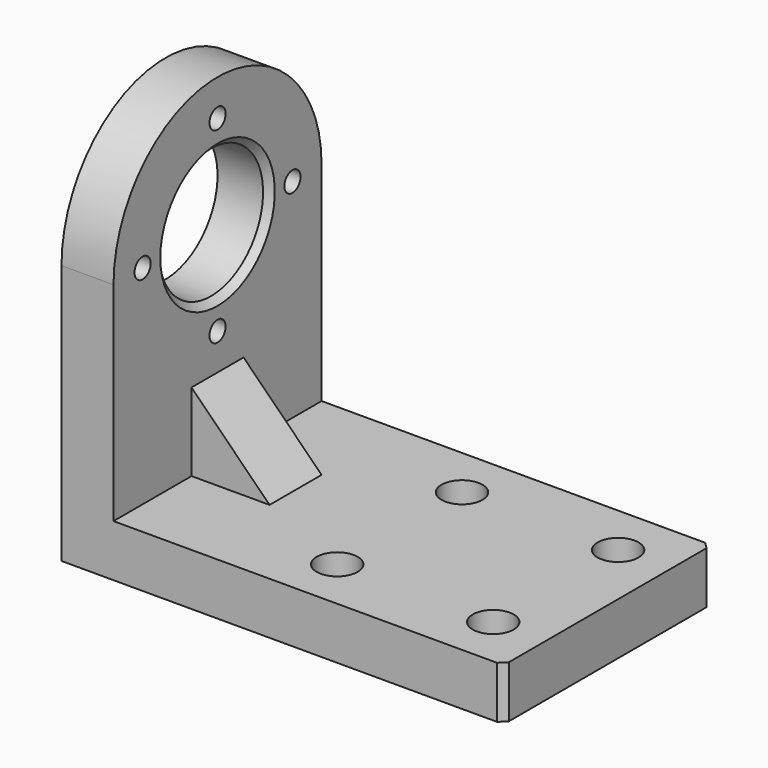
from build123d import *

# Parameters (mm, degrees)
F0_W     = 300
F0_H     = 200
F0_R     = 15.75
F0_R_2   = 8.75
F1_DEPTH = 40
F2_DEPTH = 20
F3_R     = 50
F4_DEPTH = 40
F5_D     = 15.5
F7_DEPTH = 25
F8_SIZE  = 5


with BuildPart() as f1:
    # F0 (on Top) → F1 (new body)
    with BuildSketch(Plane.XY):
        Rectangle(F0_W, F0_H)
        with Locations((-10, -60)):
            Circle(F0_R, mode=Mode.SUBTRACT)
        with Locations((110, -60)):
            Circle(F0_R, mode=Mode.SUBTRACT)
        with Locations((-10, 60)):
            Circle(F0_R, mode=Mode.SUBTRACT)
        with Locations((110, 60)):
            Circle(F0_R, mode=Mode.SUBTRACT)
        with Locations((-10, 60)):
            Circle(F0_R)
        with Locations((-10, 60)):
            Circle(F0_R_2, mode=Mode.SUBTRACT)
        with Locations((110, 60)):
            Circle(F0_R)
        with Locations((110, 60)):
            Circle(F0_R_2, mode=Mode.SUBTRACT)
        with Locations((-10, -60)):
            Circle(F0_R)
        with Locations((-10, -60)):
            Circle(F0_R_2, mode=Mode.SUBTRACT)
        with Locations((110, -60)):
            Circle(F0_R)
        with Locations((110, -60)):
            Circle(F0_R_2, mode=Mode.SUBTRACT)
    extrude(amount=-F1_DEPTH)

    # F0 (on Top) → F2 (cut)
    with BuildSketch(Plane.XY):
        with Locations((-10, 60)):
            Circle(F0_R)
        with Locations((-10, 60)):
            Circle(F0_R_2, mode=Mode.SUBTRACT)
        with Locations((110, 60)):
            Circle(F0_R)
        with Locations((110, 60)):
            Circle(F0_R_2, mode=Mode.SUBTRACT)
        with Locations((110, -60)):
            Circle(F0_R)
        with Locations((110, -60)):
            Circle(F0_R_2, mode=Mode.SUBTRACT)
        with Locations((-10, -60)):
            Circle(F0_R)
        with Locations((-10, -60)):
            Circle(F0_R_2, mode=Mode.SUBTRACT)
    extrude(amount=-F2_DEPTH, mode=Mode.SUBTRACT)

    # F3 (on face) → F4 (join)
    with BuildSketch(Plane(origin=(-150, 0, 0), x_dir=(0, -1, 0), z_dir=(-1, 0, 0))):
        with BuildLine():
            Line((-100, 160), (-100, -40))
            Line((-100, -40), (100, -40))
            Line((100, -40), (100, 160))
            ThreePointArc((100, 160), (0, 60), (-100, 160))
        make_face()
        with BuildLine():
            ThreePointArc((100, 160), (0, 260), (-100, 160))
            ThreePointArc((-100, 160), (0, 60), (100, 160))
        make_face()
        with Locations((0, 160)):
            Circle(F3_R, mode=Mode.SUBTRACT)
    extrude(amount=F4_DEPTH)

    # F5 (through all)
    with Locations(Plane(origin=(-150, 0, 0), x_dir=(0, -1, 0), z_dir=(1, 0, 0))):
        with Locations((-72, -160), (0, -232), (72, -160), (0, -88)):
            Hole(F5_D / 2)

    # F6 (on Front) → F7 (join, symmetric)
    with BuildSketch(Plane.XZ):
        Polygon((-150, 60), (-150, 0), (-90, 0), align=None)
    extrude(amount=F7_DEPTH, both=True)

    # F8
    f8_edges = [f1.edges().sort_by_distance(p)[0] for p in [
        (150, -100, -20),
        (150, 100, -20),
        (-150, 50, 160),
    ]]
    chamfer(f8_edges, length=F8_SIZE)


solid = f1.part
